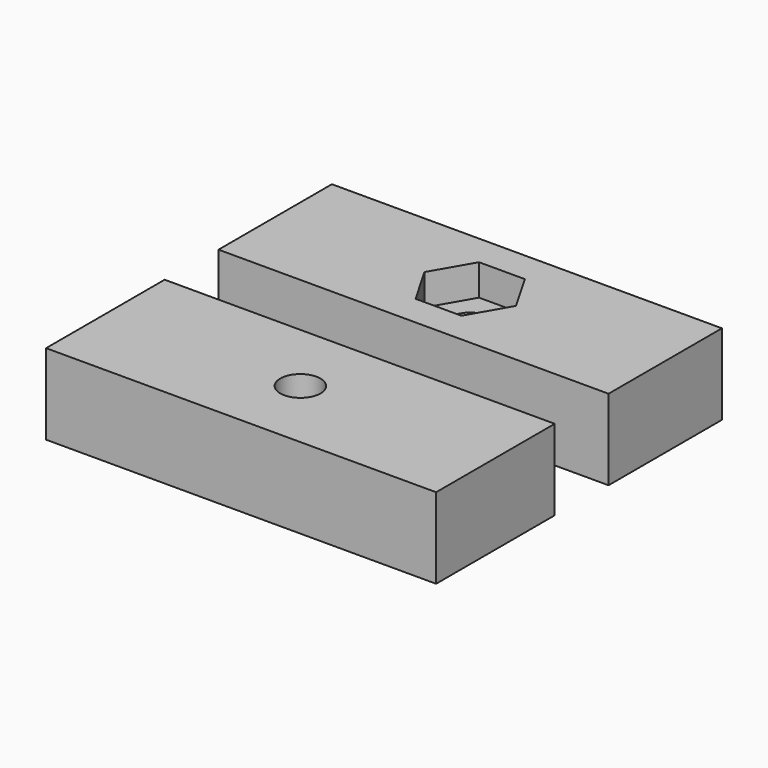
from build123d import *

# Parameters (mm, degrees)
F0_W     = 30
F0_H     = 10.9
F0_H_2   = 11.4
F0_R     = 1.55
F1_DEPTH = 6.2
F2_DEPTH = 3.8


with BuildPart() as f1:
    # F0 (on Top) → F1 (new body)
    with BuildSketch(Plane.XY):
        with Locations((-1.178198, -2.196505)):
            Rectangle(F0_W, F0_H)
        Polygon((2.343639, -2.196505), (0.582721, -5.246505), (-2.939116, -5.246505), (-4.700034, -2.196505), (-2.939116, 0.853495), (0.582721, 0.853495), align=None, mode=Mode.SUBTRACT)
        with Locations((-1.262082, -18.419137)):
            Rectangle(F0_W, F0_H_2)
        with Locations((-1.262082, -18.419137)):
            Circle(F0_R, mode=Mode.SUBTRACT)
    extrude(amount=F1_DEPTH)

    # F0 (on Top) → F2 (join)
    with BuildSketch(Plane.XY):
        Polygon((-2.939116, -5.246505), (0.582721, -5.246505), (2.343639, -2.196505), (0.582721, 0.853495), (-2.939116, 0.853495), (-4.700034, -2.196505), align=None)
        with Locations((-1.178198, -2.196505)):
            Circle(F0_R, mode=Mode.SUBTRACT)
    extrude(amount=F2_DEPTH)


solid = f1.part
